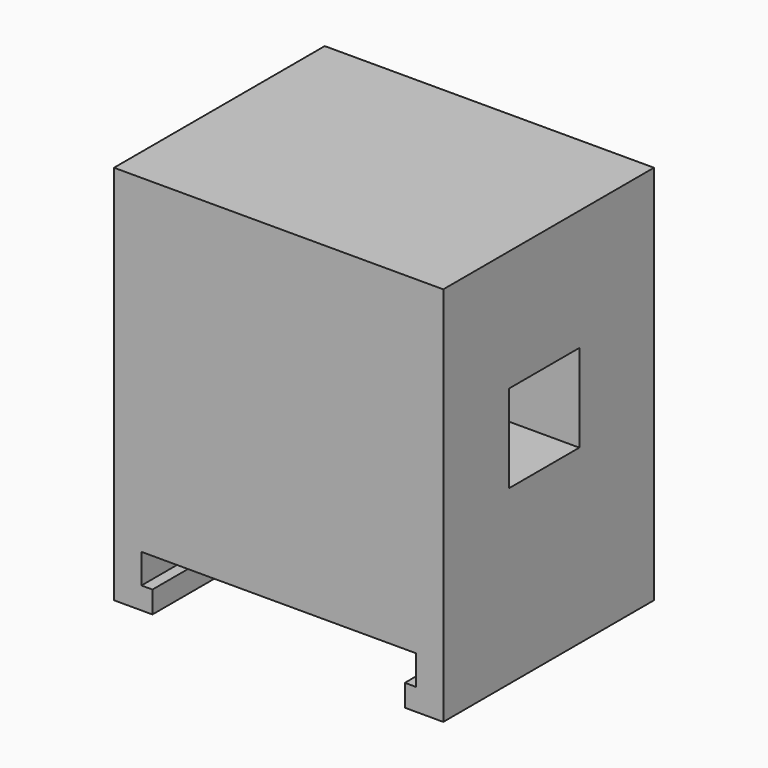
from build123d import *

# Parameters (mm, degrees)
F0_W     = 5
F0_H     = 8
F0_H_2   = 11
F0_W_2   = 2.5
F0_H_3   = 2.7
F0_W_3   = 1.5
F1_DEPTH = 24
F4_START = 8.5
F4_DEPTH = 8
F6_START = -4
F6_DEPTH = 17


with BuildPart() as f1:
    # F0 (on Front) → F1 (new body)
    with BuildSketch(Plane.XZ):
        with Locations((-12.5, 0)):
            Rectangle(F0_W, F0_H)
        with Locations((12.5, 9.5)):
            Rectangle(F0_W, F0_H_2)
        with BuildLine():
            Line((10, 4), (10, 15))
            Line((10, 15), (0, 15))
            Line((0, 15), (0, 13))
            ThreePointArc((0, 13), (2.9140227369, 12.5151906314), (5.5141020242, 11.1129936642))
            Line((5.5141020242, 11.1129936642), (3.727430731, 6.2041546301))
            Line((3.727430731, 6.2041546301), (5, 4))
            Line((5, 4), (8.5, 4))
            Line((8.5, 4), (10, 4))
        make_face()
        Polygon((0, 0), (0, 1.9517640748), (-8.5, -4), (0, -4), align=None)
        Polygon((15, -19.7), (15, -17.7), (12.5, -17.7), (11.5, -17.7), (11.5, -19.7), align=None)
        Polygon((0, -4), (8.5, -4), (0, 1.9517640748), (0, 0), align=None)
        Polygon((10, -6.7414640249), (10, -4), (8.5, -4), align=None)
        with BuildLine():
            Line((0, 13), (0, 15))
            Line((0, 15), (-10, 15))
            Line((-10, 15), (-10, 4))
            Line((-10, 4), (-8.5, 4))
            Line((-8.5, 4), (-5, 4))
            Line((-5, 4), (-3.727430731, 6.2041546301))
            Line((-3.727430731, 6.2041546301), (-5.5141020242, 11.1129936642))
            ThreePointArc((-5.5141020242, 11.1129936642), (-2.9140227369, 12.5151906314), (0, 13))
        make_face()
        with Locations((13.75, -16.35)):
            Rectangle(F0_W_2, F0_H_3)
        Polygon((10, -6.7414640249), (8.5, -4), (0, -4), (0, -15), (10, -15), align=None)
        Polygon((15, -15), (15, -4), (10, -4), (10, -6.7414640249), (10, -15), (12.5, -15), align=None)
        Polygon((0, -15), (0, -4), (-8.5, -4), (-10, -6.7414640249), (-10, -15), align=None)
        with BuildLine():
            ThreePointArc((5.5141020242, 11.1129936642), (2.9140227369, 12.5151906314), (0, 13))
            Line((0, 13), (0, 4))
            Line((0, 4), (2.9251840539, 4))
            Line((2.9251840539, 4), (3.727430731, 6.2041546301))
            Line((3.727430731, 6.2041546301), (5.5141020242, 11.1129936642))
        make_face()
        with BuildLine():
            Line((0, 4), (0, 13))
            ThreePointArc((0, 13), (-2.9140227369, 12.5151906314), (-5.5141020242, 11.1129936642))
            Line((-5.5141020242, 11.1129936642), (-3.727430731, 6.2041546301))
            Line((-3.727430731, 6.2041546301), (-2.9251840539, 4))
            Line((-2.9251840539, 4), (0, 4))
        make_face()
        with Locations((12.5, 0)):
            Rectangle(F0_W, F0_H)
        Polygon((-11.5, -19.7), (-11.5, -17.7), (-12.5, -17.7), (-15, -17.7), (-15, -19.7), align=None)
        with Locations((9.25, 0)):
            Rectangle(F0_W_3, F0_H)
        Polygon((-5, 4), (-2.9251840539, 4), (-3.727430731, 6.2041546301), align=None)
        with Locations((-13.75, -16.35)):
            Rectangle(F0_W_2, F0_H_3)
        with Locations((-12.5, 9.5)):
            Rectangle(F0_W, F0_H_2)
        Polygon((-8.5, -4), (-10, -4), (-10, -6.7414640249), align=None)
        Polygon((8.5, -4), (8.5, 4), (5, 4), (2.9251840539, 4), (0, 1.9517640748), align=None)
        Polygon((-5, 4), (-8.5, 4), (-8.5, -4), (0, 1.9517640748), (-2.9251840539, 4), align=None)
        Polygon((2.9251840539, 4), (5, 4), (3.727430731, 6.2041546301), align=None)
        Polygon((2.9251840539, 4), (0, 4), (0, 1.9517640748), align=None)
        Polygon((0, 1.9517640748), (0, 4), (-2.9251840539, 4), align=None)
        with Locations((-9.25, 0)):
            Rectangle(F0_W_3, F0_H)
        Polygon((-10, -6.7414640249), (-10, -4), (-15, -4), (-15, -15), (-12.5, -15), (-10, -15), align=None)
    extrude(amount=F1_DEPTH)

    # F2 (on face) → F3 (revolve, cut)
    with BuildSketch(Plane(origin=(0, 0, -15), x_dir=(1, 0, 0), z_dir=(0, 0, -1))):
        with BuildLine():
            ThreePointArc((0, 22), (-10, 12), (0, 2))
            Line((0, 2), (0, 12))
            Line((0, 12), (0, 22))
        make_face()
    revolve(axis=Axis((0, -6, -15), (0, -1, 0)), mode=Mode.SUBTRACT)

    # F0 (on Front) → F4 (cut)
    with BuildSketch(Plane.XZ.offset(F4_START)):
        Polygon((10, -6.7414640249), (8.5, -4), (0, -4), (0, -15), (10, -15), align=None)
        Polygon((0, -4), (8.5, -4), (0, 1.9517640748), (0, 0), align=None)
        Polygon((8.5, -4), (8.5, 4), (5, 4), (2.9251840539, 4), (0, 1.9517640748), align=None)
        Polygon((2.9251840539, 4), (0, 4), (0, 1.9517640748), align=None)
        Polygon((0, 1.9517640748), (0, 4), (-2.9251840539, 4), align=None)
        Polygon((0, 0), (0, 1.9517640748), (-8.5, -4), (0, -4), align=None)
        Polygon((-5, 4), (-8.5, 4), (-8.5, -4), (0, 1.9517640748), (-2.9251840539, 4), align=None)
        with Locations((-9.25, 0)):
            Rectangle(F0_W_3, F0_H)
        with Locations((-12.5, 0)):
            Rectangle(F0_W, F0_H)
        with Locations((9.25, 0)):
            Rectangle(F0_W_3, F0_H)
        with Locations((12.5, 0)):
            Rectangle(F0_W, F0_H)
        with BuildLine():
            ThreePointArc((5.5141020242, 11.1129936642), (2.9140227369, 12.5151906314), (0, 13))
            Line((0, 13), (0, 4))
            Line((0, 4), (2.9251840539, 4))
            Line((2.9251840539, 4), (3.727430731, 6.2041546301))
            Line((3.727430731, 6.2041546301), (5.5141020242, 11.1129936642))
        make_face()
        with BuildLine():
            Line((0, 4), (0, 13))
            ThreePointArc((0, 13), (-2.9140227369, 12.5151906314), (-5.5141020242, 11.1129936642))
            Line((-5.5141020242, 11.1129936642), (-3.727430731, 6.2041546301))
            Line((-3.727430731, 6.2041546301), (-2.9251840539, 4))
            Line((-2.9251840539, 4), (0, 4))
        make_face()
        Polygon((0, -15), (0, -4), (-8.5, -4), (-10, -6.7414640249), (-10, -15), align=None)
        Polygon((2.9251840539, 4), (5, 4), (3.727430731, 6.2041546301), align=None)
        Polygon((-5, 4), (-2.9251840539, 4), (-3.727430731, 6.2041546301), align=None)
    extrude(amount=F4_DEPTH, mode=Mode.SUBTRACT)

    # F5 (on face) → F6 (cut)
    with BuildSketch(Plane(origin=(0, 0, 0), x_dir=(-1, 0, 0), z_dir=(0, 1, 0)).offset(F6_START)):
        with BuildLine():
            ThreePointArc((0, 3), (1.4142135624, 3.5857864376), (2, 5))
            ThreePointArc((2, 5), (-1.4142135624, 6.4142135624), (0, 3))
        make_face()
    extrude(amount=-F6_DEPTH, mode=Mode.SUBTRACT)


solid = f1.part
